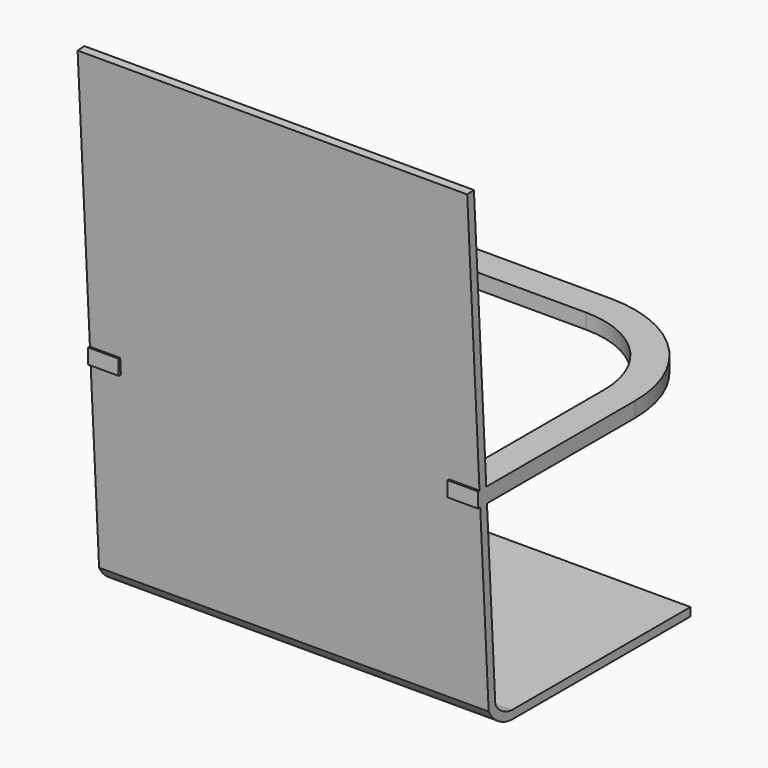
from build123d import *

# Parameters (mm, degrees)
F2_DEPTH = 1.651
F3_DEPTH = 0.7112
F4_DEPTH = 16.68526
F5_DEPTH = 2.1082


with BuildPart() as f2:
    # F1 (on Right) → F2 (new body)
    with BuildSketch(Plane.YZ):
        with BuildLine():
            Line((-0.2421069604, 13.3002023897), (-0.6375133526, 13.2774123922))
            Line((-0.6375133526, 13.2774123922), (0.6271508173, -8.6645074189))
            ThreePointArc((0.6271508173, -8.6645074189), (1.1764445867, -9.2804609215), (1.9562288653, -9.5507549122))
            Line((1.9562288653, -9.5507549122), (10.3850932792, -9.5507549122))
            Line((10.3850932792, -9.5507549122), (10.3850932792, -9.1546922922))
            Line((10.3850932792, -9.1546922922), (1.9730122271, -9.1546922922))
            ThreePointArc((1.9730122271, -9.1546922922), (1.4228217611, -8.9682207065), (1.0173951252, -8.552155274))
            Line((1.0173951252, -8.552155274), (-0.2421069604, 13.3002023897))
        make_face()
    extrude(amount=-F2_DEPTH)

    # F0 (on Top) → F3 (join)
    with BuildSketch(Plane.XY):
        with BuildLine():
            ThreePointArc((0, 9.231187034), (-1.7012077985, 13.3382659736), (-5.808286738, 15.039473772))
            Line((-5.808286738, 15.039473772), (-13.2799016967, 15.039473772))
            ThreePointArc((-13.2799016967, 15.039473772), (-16.8636996774, 13.5550160436), (-18.3481574059, 9.9712180629))
            Line((-18.3481574059, 9.9712180629), (-18.3481574059, 0))
            Line((-18.3481574059, 0), (-16.9112477452, 0))
            Line((-16.9112477452, 0), (-16.9112477452, 9.9712180629))
            ThreePointArc((-16.9112477452, 9.9712180629), (-15.8476511124, 12.5389674786), (-13.2799016967, 13.6025641114))
            Line((-13.2799016967, 13.6025641114), (-5.808286738, 13.6025641114))
            ThreePointArc((-5.808286738, 13.6025641114), (-2.7172563635, 12.3222174085), (-1.4369096607, 9.231187034))
            Line((-1.4369096607, 9.231187034), (-1.4369096607, 0))
            Line((-1.4369096607, 0), (0, 0))
            Line((0, 0), (0, 9.231187034))
        make_face()
    extrude(amount=F3_DEPTH)

    # F4 (add): a face of the model
    f4_faces = [f2.faces().sort_by_distance(p)[0] for p in [
        (-1.651, -0.4252115949, 13.0355223881),
    ]]
    extrude(f4_faces, amount=F4_DEPTH)

    # F5 (add): a face of the model
    f5_faces = [f2.faces().sort_by_distance(p)[0] for p in [
        (-9.16813, 10.3850932792, -9.3527236022),
    ]]
    extrude(f5_faces, amount=F5_DEPTH)


solid = f2.part
